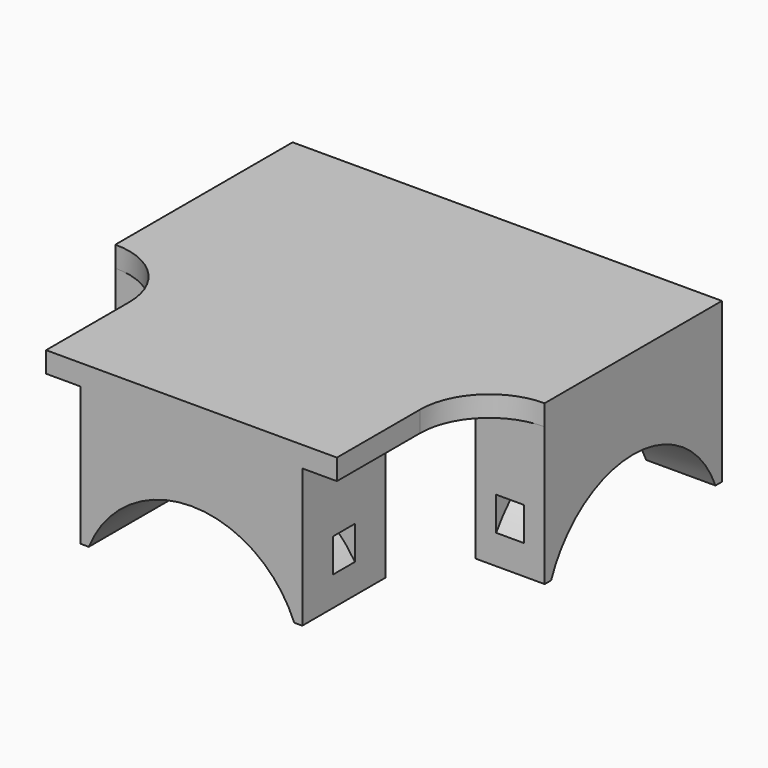
from build123d import *

# Parameters (mm, degrees)
F1_DEPTH  = 3
F0_W      = 10
F0_H      = 32
F2_DEPTH  = 13
F3_DEPTH  = 10
F4_R      = 16
F5_DEPTH  = 62.001
F6_W      = 32
F6_H      = 15
F7_DEPTH  = 23
F8_R      = 16
F9_DEPTH  = 15.001
F11_START = -3
F11_DEPTH = 4
F12_START = -55
F12_DEPTH = 4
F14_START = -5.5
F14_DEPTH = 4
F15_DEPTH = 3


with BuildPart() as f1:
    # F0 (on Top) → F1 (new body)
    with BuildSketch(Plane.XY):
        Polygon((42, 0), (0, 0), (0, -32), (0, -42), (0, -57), (42, -57), (42, -42), (42, -32), align=None)
    extrude(amount=-F1_DEPTH)

    # F0 (on Top) → F2 (join)
    with BuildSketch(Plane.XY):
        with Locations((47, -16)):
            Rectangle(F0_W, F0_H)
        with Locations((-5, -16)):
            Rectangle(F0_W, F0_H)
    extrude(amount=-F2_DEPTH)

    # F3 (add): faces of the model
    f3_faces = [f1.faces().sort_by_distance(p)[0] for p in [
        (47, -16, -13),
        (-5, -16, -13),
    ]]
    extrude(f3_faces, amount=F3_DEPTH)

    # F4 (on face) → F5 (cut, through all)
    with BuildSketch(Plane.YZ.offset(52)):
        with Locations((-16, -29)):
            Circle(F4_R)
    extrude(amount=-F5_DEPTH, mode=Mode.SUBTRACT)

    # F6 (on face) → F7 (join)
    with BuildSketch(Plane.XY):
        with Locations((21, -49.5)):
            Rectangle(F6_W, F6_H)
    extrude(amount=-F7_DEPTH)

    # F8 (on face) → F9 (cut, through all)
    with BuildSketch(Plane(origin=(0, -42, 0), x_dir=(-1, 0, 0), z_dir=(0, 1, 0))):
        with Locations((-21, -29)):
            Circle(F8_R)
    extrude(amount=-F9_DEPTH, mode=Mode.SUBTRACT)

    # F10 (on face) → F11 (cut)
    with BuildSketch(Plane(origin=(-10, 0, 0), x_dir=(0, -1, 0), z_dir=(-1, 0, 0)).offset(F11_START)):
        with BuildLine():
            ThreePointArc((0, -18.753049234), (16, -10), (32, -18.753049234))
            Line((32, -18.753049234), (32, -13.9003311295))
            ThreePointArc((32, -13.9003311295), (16, -7), (0, -13.9003311295))
            Line((0, -13.9003311295), (0, -18.753049234))
        make_face()
    extrude(amount=-F11_DEPTH, mode=Mode.SUBTRACT)

    # F10 (on face) → F12 (cut)
    with BuildSketch(Plane(origin=(-10, 0, 0), x_dir=(0, -1, 0), z_dir=(-1, 0, 0)).offset(F12_START)):
        with BuildLine():
            ThreePointArc((0, -18.753049234), (16, -10), (32, -18.753049234))
            Line((32, -18.753049234), (32, -13.9003311295))
            ThreePointArc((32, -13.9003311295), (16, -7), (0, -13.9003311295))
            Line((0, -13.9003311295), (0, -18.753049234))
        make_face()
    extrude(amount=-F12_DEPTH, mode=Mode.SUBTRACT)

    # F13 (on face) → F14 (cut)
    with BuildSketch(Plane.XZ.offset(57).offset(F14_START)):
        with BuildLine():
            ThreePointArc((5, -18.753049234), (21, -10), (37, -18.753049234))
            Line((37, -18.753049234), (37, -13.9003311295))
            ThreePointArc((37, -13.9003311295), (21, -7), (5, -13.9003311295))
            Line((5, -13.9003311295), (5, -18.753049234))
        make_face()
    extrude(amount=-F14_DEPTH, mode=Mode.SUBTRACT)

    # F0 (on Top) → F15 (join)
    with BuildSketch(Plane.XY):
        with BuildLine():
            Line((52, -32), (42, -32))
            Line((42, -32), (42, -42))
            ThreePointArc((42, -42), (44.9289321881, -34.9289321881), (52, -32))
        make_face()
        with BuildLine():
            Line((0, -42), (0, -32))
            Line((0, -32), (-10, -32))
            ThreePointArc((-10, -32), (-2.9289321881, -34.9289321881), (0, -42))
        make_face()
    extrude(amount=-F15_DEPTH)


solid = f1.part
